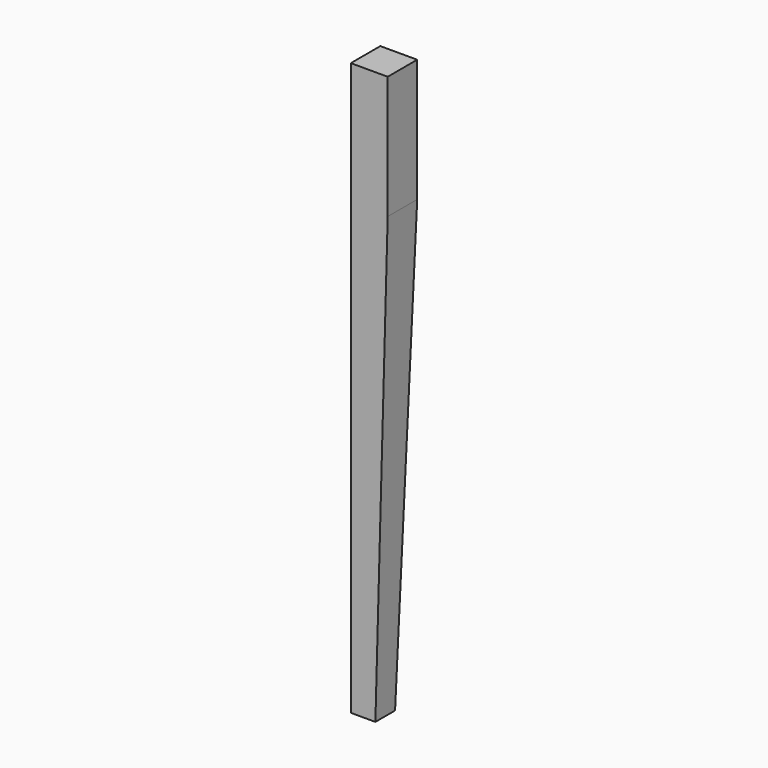
from build123d import *

# Parameters (mm, degrees)
F0_W     = 38.1
F0_H     = 590.55
F1_DEPTH = 19.05
F3_DEPTH = 38.1
F5_DEPTH = 38.101


with BuildPart() as f1:
    # F0 (on Front) → F1 (new body, symmetric)
    with BuildSketch(Plane.XZ):
        Rectangle(F0_W, F0_H)
    extrude(amount=F1_DEPTH, both=True)

    # F2 (on face) → F3 (cut, through all)
    with BuildSketch(Plane.XZ.offset(19.05)):
        Polygon((19.05, 168.275), (6.35, -295.275), (19.05, -295.275), align=None)
    extrude(amount=-F3_DEPTH, mode=Mode.SUBTRACT)

    # F4 (on face) → F5 (cut, through all)
    with BuildSketch(Plane.YZ.offset(19.05)):
        Polygon((19.05, -295.275), (19.05, 168.275), (6.35, -295.275), align=None)
    extrude(amount=-F5_DEPTH, mode=Mode.SUBTRACT)


solid = f1.part
